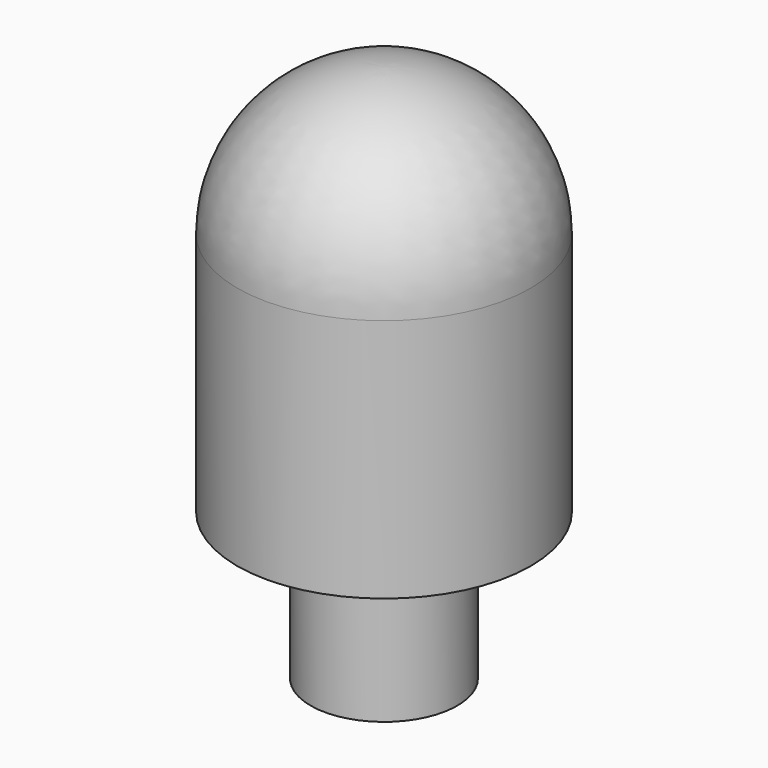
from build123d import *


with BuildPart() as f1:
    # F0 (on Front) → F1 (revolve)
    with BuildSketch(Plane.XZ):
        with BuildLine():
            Line((0, -9.525), (0, 25.4))
            ThreePointArc((0, 25.4), (-6.735192, 22.610192), (-9.525, 15.875))
            Line((-9.525, 15.875), (-9.525, 0))
            Line((-9.525, 0), (-4.7625, 0))
            Line((-4.7625, 0), (-4.7625, -9.525))
            Line((-4.7625, -9.525), (0, -9.525))
        make_face()
    revolve(axis=Axis((0, 0, 7.9375), (0, 0, 1)))


solid = f1.part
